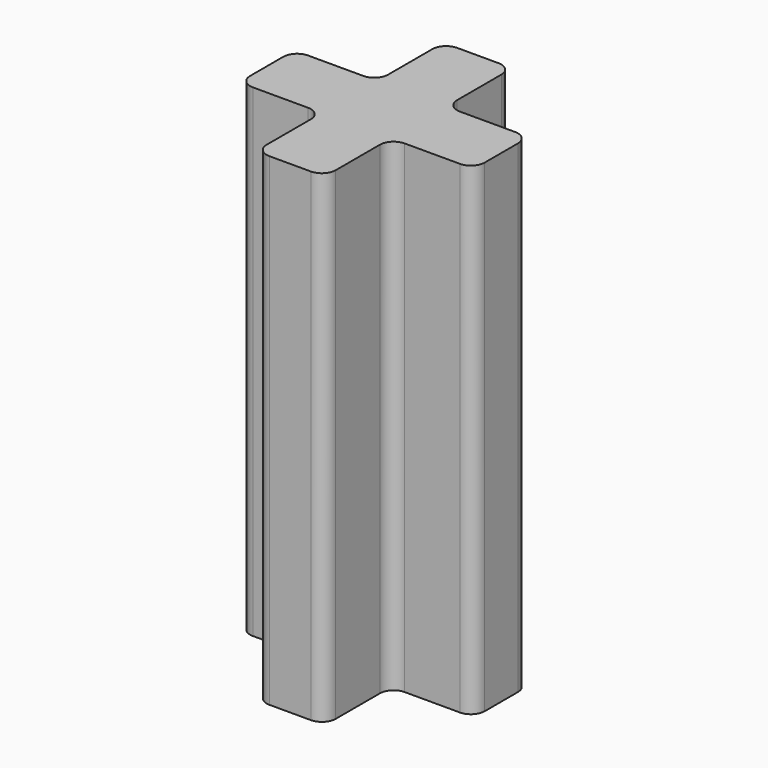
from build123d import *

# Parameters (mm, degrees)
F1_DEPTH = 35
F2_R     = 1
F3_R     = 1
F4_R     = 1


with BuildPart() as f1:
    # F0 (on Top) → F1 (new body)
    with BuildSketch(Plane.XY):
        Polygon((-8.5, -2.5), (-2.5, -2.5), (-2.5, -8.5), (2.5, -8.5), (2.5, -2.5), (8.5, -2.5), (8.5, 2.5), (2.5, 2.5), (2.5, 8.5), (-2.5, 8.5), (-2.5, 2.5), (-8.5, 2.5), align=None)
    extrude(amount=F1_DEPTH)

    # F2
    f2_edges = [f1.edges().sort_by_distance(p)[0] for p in [
        (2.5, -2.5, 17.5),
        (-2.5, -2.5, 17.5),
    ]]
    fillet(f2_edges, radius=F2_R)

    # F3
    f3_edges = [f1.edges().sort_by_distance(p)[0] for p in [
        (-2.5, 2.5, 17.5),
        (2.5, 2.5, 17.5),
    ]]
    fillet(f3_edges, radius=F3_R)

    # F4
    f4_edges = [f1.edges().sort_by_distance(p)[0] for p in [
        (-2.5, -8.5, 17.5),
        (2.5, -8.5, 17.5),
        (-8.5, -2.5, 17.5),
        (-8.5, 2.5, 17.5),
        (-2.5, 8.5, 17.5),
        (2.5, 8.5, 17.5),
        (8.5, 2.5, 17.5),
        (8.5, -2.5, 17.5),
    ]]
    fillet(f4_edges, radius=F4_R)


solid = f1.part
